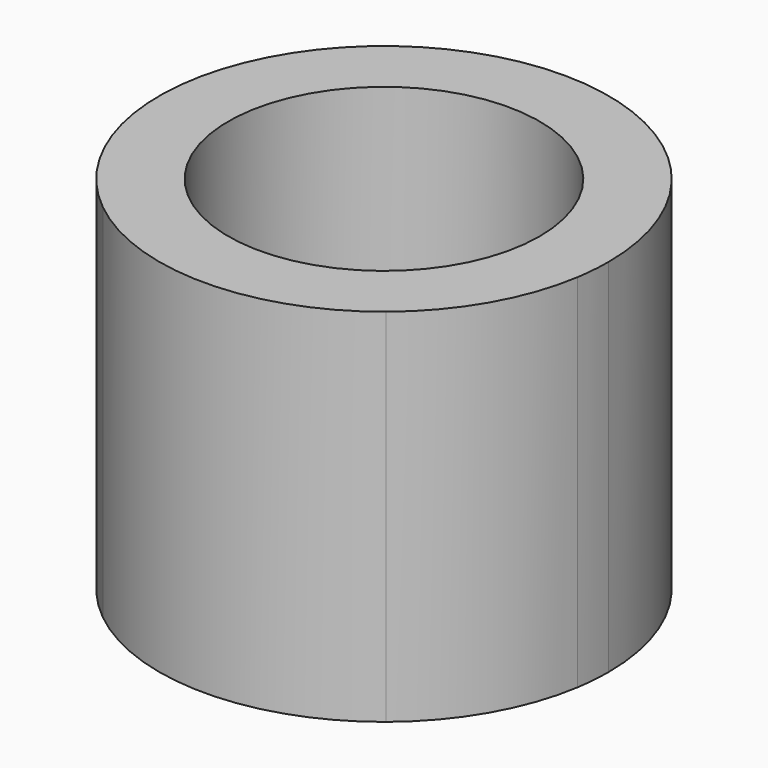
from build123d import *

# Parameters (mm, degrees)
F0_R     = 97
F1_DEPTH = 112.5


with BuildPart() as f1:
    # F0 (on Top) → F1 (new body, symmetric)
    with BuildSketch(Plane.XY):
        with BuildLine():
            ThreePointArc((138.247517, -22.082214), (139.561191, -11.075822), (140, 0))
            ThreePointArc((140, 0), (115.325626, 79.372539), (50, 130.766968))
            ThreePointArc((50, 130.766968), (0, 140), (-50, 130.766968))
            ThreePointArc((-50, 130.766968), (-121.243557, 70), (-138.247517, -22.082214))
            ThreePointArc((-138.247517, -22.082214), (-121.243557, -70), (-88.247517, -108.684754))
            ThreePointArc((-88.247517, -108.684754), (0, -140), (88.247517, -108.684754))
            ThreePointArc((88.247517, -108.684754), (121.243557, -70), (138.247517, -22.082214))
        make_face()
        Circle(F0_R, mode=Mode.SUBTRACT)
    extrude(amount=F1_DEPTH, both=True)


solid = f1.part
